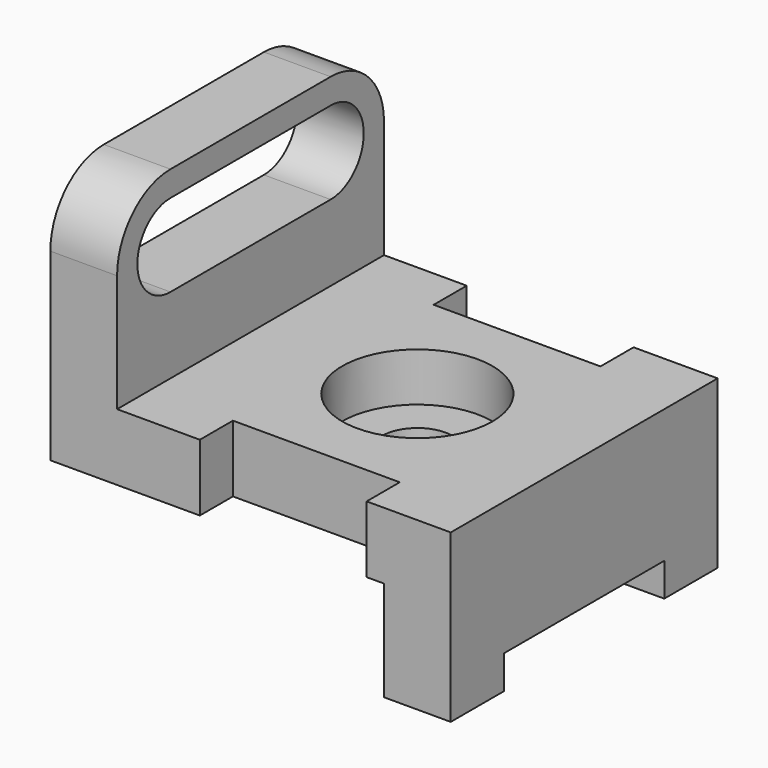
from build123d import *

# Parameters (mm, degrees)
F0_W      = 63.5
F0_H      = 63.5
F1_DEPTH  = 12.7
F3_W      = 63.5
F3_H      = 12.7
F4_DEPTH  = 12.7
F5_DEPTH  = 12.7
F6_W      = 31.75
F6_H      = 7.874
F7_DEPTH  = 12.701
F8_W      = 12.7
F8_H      = 63.5
F9_DEPTH  = 19.05
F10_W     = 38.1
F10_H     = 6.35
F11_DEPTH = 25.4
F12_R     = 6.7437
F13_DEPTH = 31.751
F14_R     = 14.2875
F15_DEPTH = 9.2456


with BuildPart() as f1:
    # F0 (on Top) → F1 (new body)
    with BuildSketch(Plane.XY):
        with Locations((31.75, 32.281832)):
            Rectangle(F0_W, F0_H)
    extrude(amount=F1_DEPTH)

    # F3 (on face) → F4 (join)
    with BuildSketch(Plane(origin=(0, 0, 0), x_dir=(0, -1, 0), z_dir=(-1, 0, 0))):
        with Locations((-32.281832, 6.35)):
            Rectangle(F3_W, F3_H)
    extrude(amount=F4_DEPTH)

    # F2 (on Right) → F5 (join)
    with BuildSketch(Plane.YZ):
        with BuildLine():
            Line((51.331832, 47.752), (13.231832, 47.752))
            ThreePointArc((13.231832, 47.752), (4.251576, 44.032256), (0.531832, 35.052))
            Line((0.531832, 35.052), (0.531832, 12.7))
            Line((0.531832, 12.7), (64.031832, 12.7))
            Line((64.031832, 12.7), (64.031832, 35.052))
            ThreePointArc((64.031832, 35.052), (60.312088, 44.032256), (51.331832, 47.752))
        make_face()
        with BuildLine():
            ThreePointArc((13.231832, 27.178), (5.357832, 35.052), (13.231832, 42.926))
            Line((13.231832, 42.926), (51.331832, 42.926))
            ThreePointArc((51.331832, 42.926), (59.205832, 35.052), (51.331832, 27.178))
            Line((51.331832, 27.178), (13.231832, 27.178))
        make_face(mode=Mode.SUBTRACT)
    extrude(amount=-F5_DEPTH)

    # F6 (on face) → F7 (cut, through all)
    with BuildSketch(Plane.XY.offset(12.7)):
        with Locations((31.623, 4.468832)):
            Rectangle(F6_W, F6_H)
        with Locations((31.623, 60.094832)):
            Rectangle(F6_W, F6_H)
    extrude(amount=-F7_DEPTH, mode=Mode.SUBTRACT)

    # F8 (on face) → F9 (join)
    with BuildSketch(Plane(origin=(0, 0, 0), x_dir=(1, 0, 0), z_dir=(0, 0, -1))):
        with Locations((57.15, -32.281832)):
            Rectangle(F8_W, F8_H)
    extrude(amount=F9_DEPTH)

    # F10 (on face) → F11 (cut)
    with BuildSketch(Plane.YZ.offset(63.5)):
        with Locations((32.281832, -15.875)):
            Rectangle(F10_W, F10_H)
    extrude(amount=-F11_DEPTH, mode=Mode.SUBTRACT)

    # F12 (on face) → F13 (cut, through all)
    with BuildSketch(Plane.XY.offset(12.7)):
        with Locations((31.75, 32.281832)):
            Circle(F12_R)
    extrude(amount=-F13_DEPTH, mode=Mode.SUBTRACT)

    # F14 (on face) → F15 (cut)
    with BuildSketch(Plane.XY.offset(12.7)):
        with Locations((31.75, 32.281832)):
            Circle(F14_R)
    extrude(amount=-F15_DEPTH, mode=Mode.SUBTRACT)


solid = f1.part
